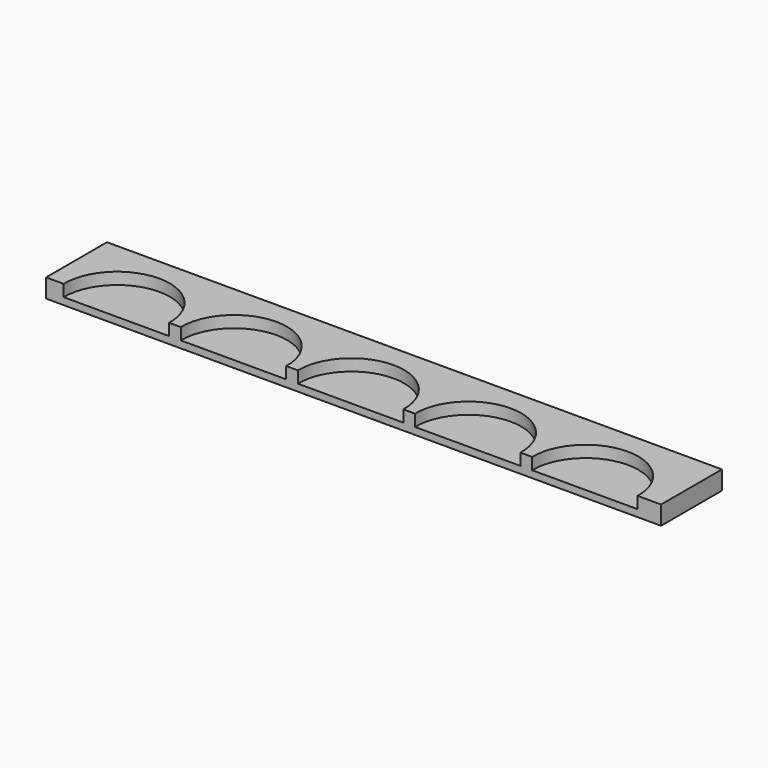
from build123d import *

# Parameters (mm, degrees)
F0_W     = 525
F0_H     = 16
F1_DEPTH = 65
F3_DEPTH = 10


with BuildPart() as f1:
    # F0 (on Front) → F1 (new body)
    with BuildSketch(Plane.XZ):
        Rectangle(F0_W, F0_H)
    extrude(amount=-F1_DEPTH)

    # F2 (on face) → F3 (cut)
    with BuildSketch(Plane.XY.offset(8)):
        with BuildLine():
            Line((-247.5, 0), (-157.51603, 0))
            ThreePointArc((-157.51603, 0), (-202.508015, 45.849295), (-247.5, 0))
        make_face()
        with BuildLine():
            ThreePointArc((-57.51603, 0), (-102.508015, 45.849295), (-147.5, 0))
            Line((-147.5, 0), (-57.51603, 0))
        make_face()
        with BuildLine():
            ThreePointArc((42.48397, 0), (-2.508015, 45.849295), (-47.5, 0))
            Line((-47.5, 0), (42.48397, 0))
        make_face()
        with BuildLine():
            ThreePointArc((142.48397, 0), (97.491985, 45.849295), (52.5, 0))
            Line((52.5, 0), (142.48397, 0))
        make_face()
        with BuildLine():
            Line((152.5, 0), (242.48397, 0))
            ThreePointArc((242.48397, 0), (197.491985, 45.849295), (152.5, 0))
        make_face()
    extrude(amount=-F3_DEPTH, mode=Mode.SUBTRACT)


solid = f1.part
